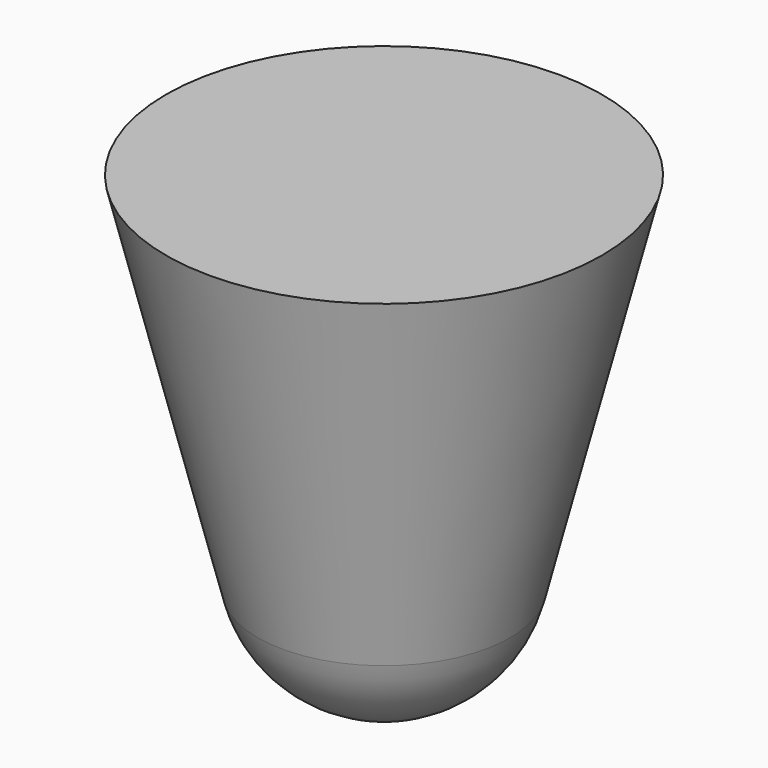
from build123d import *


with BuildPart() as f1:
    # F0 (on Front) → F1 (revolve)
    with BuildSketch(Plane.XZ):
        with BuildLine():
            Line((32.6238836162, 40.1804404727), (7.6238836162, 40.1804404727))
            Line((7.6238836162, 40.1804404727), (18.1270947, -1.8324038624))
            ThreePointArc((18.1270947, -1.8324038624), (20.8457707455, 10.987866016), (32.6238836162, 16.7347413759))
            Line((32.6238836162, 16.7347413759), (32.6238836162, 40.1804404727))
        make_face()
        with BuildLine():
            ThreePointArc((32.6238836162, 16.7347413759), (20.8457707455, 10.987866016), (18.1270947, -1.8324038624))
            ThreePointArc((18.1270947, -1.8324038624), (23.4278109875, -9.9863194833), (32.6238836162, -13.1511546011))
            Line((32.6238836162, -13.1511546011), (32.6238836162, 16.7347413759))
        make_face()
    revolve(axis=Axis((32.6238836162, 0, -9.8195595273), (0, 0, -1)))


solid = f1.part
